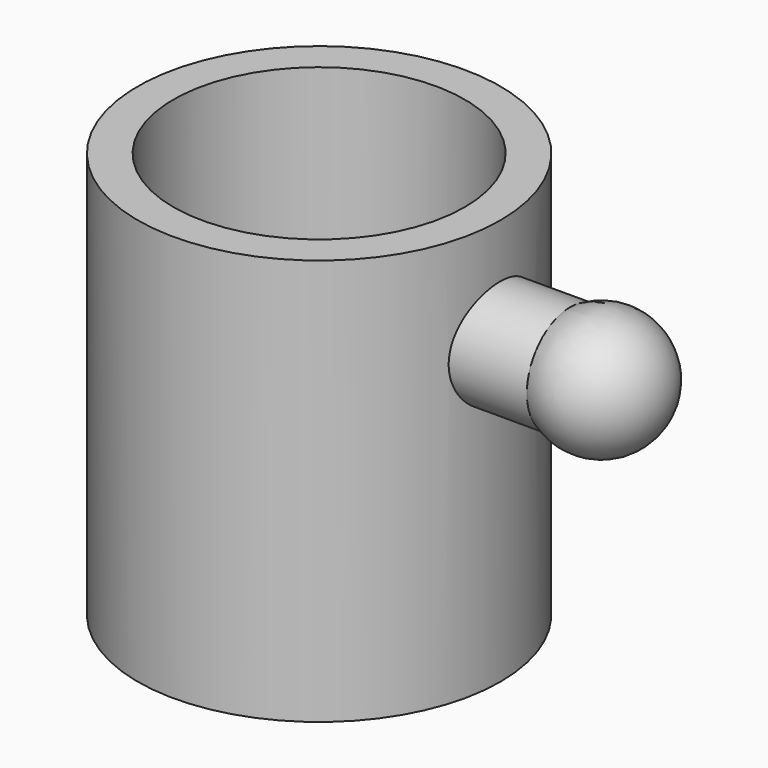
from build123d import *

# Parameters (mm, degrees)
F0_R          = 6.826248
F0_R_2        = 5.483861
F1_DEPTH      = 15.2908
F3_R          = 2.032
F4_DEPTH      = 2.8956
F4_DEPTH_BACK = 1.6256


with BuildPart() as f1:
    # F0 (on Top) → F1 (new body)
    with BuildSketch(Plane.XY):
        with Locations((-43.26782, 13.760585)):
            Circle(F0_R)
        with Locations((-43.26782, 13.760585)):
            Circle(F0_R_2, mode=Mode.SUBTRACT)
    extrude(amount=F1_DEPTH)

    # F3 (on offset) → F4 (join, two sides)
    with BuildSketch(Plane.YZ.offset(-35.52952)) as f4_sk:
        with Locations((13.747922, 11.24013)):
            Circle(F3_R)
    extrude(amount=F4_DEPTH)
    extrude(f4_sk.sketch, amount=-F4_DEPTH_BACK)

    # F5 (on face) → F6 (revolve)
    with BuildSketch(Plane.YZ.offset(-32.63392)):
        with BuildLine():
            Line((11.398422, 11.24013), (11.715922, 11.24013))
            ThreePointArc((11.715922, 11.24013), (13.747922, 13.27213), (15.779922, 11.24013))
            Line((15.779922, 11.24013), (16.097422, 11.24013))
            ThreePointArc((16.097422, 11.24013), (13.747922, 13.58963), (11.398422, 11.24013))
        make_face()
    revolve(axis=Axis((-32.63392, 12.573172, 11.24013), (0, -1, 0)))


solid = f1.part
